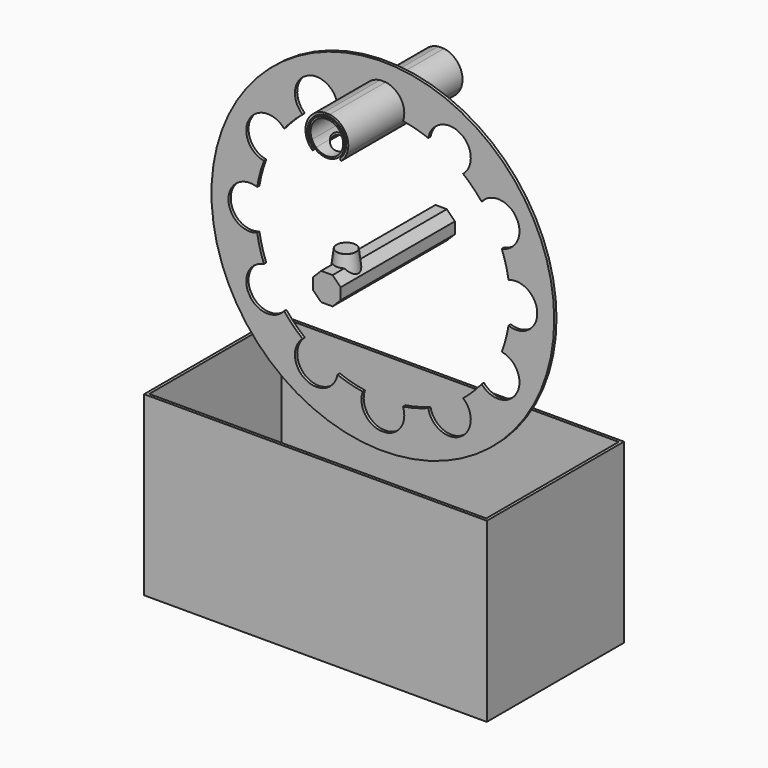
from build123d import *

# Parameters (mm, degrees)
F1_W          = 600
F1_H          = 310
F2_DEPTH      = 150
F3_T          = -5
F4_R          = 300
F5_DEPTH      = 2.5
F6_DEPTH      = 125
F7_DEPTH      = 107.89249
F7_DEPTH_BACK = 150.001
F8_DEPTH      = 125
F9_R          = 22.5
F10_DEPTH     = 216.3419725472
F11_DEPTH     = 125
F14_R         = 0.4


with BuildPart() as f2:
    # F1 (on Front) → F2 (new body, symmetric)
    with BuildSketch(Plane.XZ):
        with Locations((0, -405)):
            Rectangle(F1_W, F1_H)
    extrude(amount=F2_DEPTH, both=True)

    # F3
    f3_openings = [f2.faces().sort_by_distance(p)[0] for p in [
        (0, 0, -250),
    ]]
    offset(amount=F3_T, openings=f3_openings)


with BuildPart() as f5:
    # F4 (on Front) → F5 (new body, symmetric)
    with BuildSketch(Plane.XZ):
        Circle(F4_R)
        with BuildLine():
            ThreePointArc((-79.490946204, 208.174326227), (-57.6738974326, 215.2419154891), (-35.24598433, 220.0297280303))
            ThreePointArc((-35.24598433, 220.0297280303), (-32.0810198381, 252.2528137673), (-5, 270))
            Line((-5, 270), (5, 270))
            ThreePointArc((5, 270), (32.0810198381, 252.2528137673), (35.24598433, 220.0297280303))
            ThreePointArc((35.24598433, 220.0297280303), (57.6738974326, 215.2419154891), (79.490946204, 208.174326227))
            ThreePointArc((79.490946204, 208.174326227), (98.3434287245, 234.4978548177), (130.6698729811, 236.3268590218))
            Line((130.6698729811, 236.3268590218), (139.3301270189, 231.3268590218))
            ThreePointArc((139.3301270189, 231.3268590218), (153.9093850428, 202.4168349795), (140.5387818264, 172.928341897))
            ThreePointArc((140.5387818264, 172.928341897), (157.5680180565, 157.5680180565), (172.928341897, 140.5387818264))
            ThreePointArc((172.928341897, 140.5387818264), (202.4168349795, 153.9093850428), (231.3268590218, 139.3301270189))
            Line((231.3268590218, 139.3301270189), (236.3268590218, 130.6698729811))
            ThreePointArc((236.3268590218, 130.6698729811), (234.4978548177, 98.3434287245), (208.174326227, 79.490946204))
            ThreePointArc((208.174326227, 79.490946204), (215.2419154891, 57.6738974326), (220.0297280303, 35.24598433))
            ThreePointArc((220.0297280303, 35.24598433), (252.2528137673, 32.0810198381), (270, 5))
            Line((270, 5), (270, -5))
            ThreePointArc((270, -5), (252.2528137673, -32.0810198381), (220.0297280303, -35.24598433))
            ThreePointArc((220.0297280303, -35.24598433), (215.2419154891, -57.6738974326), (208.174326227, -79.490946204))
            ThreePointArc((208.174326227, -79.490946204), (234.4978548177, -98.3434287245), (236.3268590218, -130.6698729811))
            Line((236.3268590218, -130.6698729811), (231.3268590218, -139.3301270189))
            ThreePointArc((231.3268590218, -139.3301270189), (202.4168349795, -153.9093850428), (172.928341897, -140.5387818264))
            ThreePointArc((172.928341897, -140.5387818264), (157.5680180565, -157.5680180565), (140.5387818264, -172.928341897))
            ThreePointArc((140.5387818264, -172.928341897), (153.9093850428, -202.4168349795), (139.3301270189, -231.3268590218))
            Line((139.3301270189, -231.3268590218), (130.6698729811, -236.3268590218))
            ThreePointArc((130.6698729811, -236.3268590218), (98.3434287245, -234.4978548177), (79.490946204, -208.174326227))
            ThreePointArc((79.490946204, -208.174326227), (57.6738974326, -215.2419154891), (35.24598433, -220.0297280303))
            ThreePointArc((35.24598433, -220.0297280303), (32.0810198381, -252.2528137673), (5, -270))
            Line((5, -270), (-5, -270))
            ThreePointArc((-5, -270), (-32.0810198381, -252.2528137673), (-35.24598433, -220.0297280303))
            ThreePointArc((-35.24598433, -220.0297280303), (-57.6738974326, -215.2419154891), (-79.490946204, -208.174326227))
            ThreePointArc((-79.490946204, -208.174326227), (-98.3434287245, -234.4978548177), (-130.6698729811, -236.3268590218))
            Line((-130.6698729811, -236.3268590218), (-139.3301270189, -231.3268590218))
            ThreePointArc((-139.3301270189, -231.3268590218), (-153.9093850428, -202.4168349795), (-140.5387818264, -172.928341897))
            ThreePointArc((-140.5387818264, -172.928341897), (-157.5680180565, -157.5680180565), (-172.928341897, -140.5387818264))
            ThreePointArc((-172.928341897, -140.5387818264), (-202.4168349795, -153.9093850428), (-231.3268590218, -139.3301270189))
            Line((-231.3268590218, -139.3301270189), (-236.3268590218, -130.6698729811))
            ThreePointArc((-236.3268590218, -130.6698729811), (-234.4978548177, -98.3434287245), (-208.174326227, -79.490946204))
            ThreePointArc((-208.174326227, -79.490946204), (-215.2419154891, -57.6738974326), (-220.0297280303, -35.24598433))
            ThreePointArc((-220.0297280303, -35.24598433), (-252.2528137673, -32.0810198381), (-270, -5))
            Line((-270, -5), (-270, 5))
            ThreePointArc((-270, 5), (-252.2528137673, 32.0810198381), (-220.0297280303, 35.24598433))
            ThreePointArc((-220.0297280303, 35.24598433), (-215.2419154891, 57.6738974326), (-208.174326227, 79.490946204))
            ThreePointArc((-208.174326227, 79.490946204), (-234.4978548177, 98.3434287245), (-236.3268590218, 130.6698729811))
            Line((-236.3268590218, 130.6698729811), (-231.3268590218, 139.3301270189))
            ThreePointArc((-231.3268590218, 139.3301270189), (-202.4168349795, 153.9093850428), (-172.928341897, 140.5387818264))
            ThreePointArc((-172.928341897, 140.5387818264), (-157.5680180565, 157.5680180565), (-140.5387818264, 172.928341897))
            ThreePointArc((-140.5387818264, 172.928341897), (-153.9093850428, 202.4168349795), (-139.3301270189, 231.3268590218))
            Line((-139.3301270189, 231.3268590218), (-130.6698729811, 236.3268590218))
            ThreePointArc((-130.6698729811, 236.3268590218), (-98.3434287245, 234.4978548177), (-79.490946204, 208.174326227))
        make_face(mode=Mode.SUBTRACT)
    extrude(amount=F5_DEPTH, both=True)


with BuildPart() as f6:
    # F4 (on Front) → F6 (new body, symmetric)
    with BuildSketch(Plane.XZ):
        with BuildLine():
            ThreePointArc((-35.24598433, 220.0297280303), (-31.0603137435, 211.8227623085), (-25, 204.883978413))
            Line((-25, 204.883978413), (-22.6, 207.567259986))
            ThreePointArc((-22.6, 207.567259986), (-27.8742367873, 213.541385631), (-31.6080848843, 220.5817073069))
            ThreePointArc((-31.6080848843, 220.5817073069), (-33.4281739392, 220.3132266015), (-35.24598433, 220.0297280303))
        make_face()
        with BuildLine():
            ThreePointArc((-5, 270), (-32.0810198381, 252.2528137673), (-35.24598433, 220.0297280303))
            ThreePointArc((-35.24598433, 220.0297280303), (-33.4281739392, 220.3132266015), (-31.6080848843, 220.5817073069))
            ThreePointArc((-31.6080848843, 220.5817073069), (-6.2328132662, 266.1569234858), (33.9, 232.8348281317))
            ThreePointArc((33.9, 232.8348281317), (33.3220953541, 226.6020148655), (31.6080848843, 220.5817073069))
            ThreePointArc((31.6080848843, 220.5817073069), (33.4281739392, 220.3132266015), (35.24598433, 220.0297280303))
            ThreePointArc((35.24598433, 220.0297280303), (32.0810198381, 252.2528137673), (5, 270))
            Line((5, 270), (-5, 270))
        make_face()
        with BuildLine():
            Line((22.6, 207.567259986), (25, 204.883978413))
            ThreePointArc((25, 204.883978413), (31.0603137435, 211.8227623085), (35.24598433, 220.0297280303))
            ThreePointArc((35.24598433, 220.0297280303), (33.4281739392, 220.3132266015), (31.6080848843, 220.5817073069))
            ThreePointArc((31.6080848843, 220.5817073069), (27.8742367873, 213.541385631), (22.6, 207.567259986))
        make_face()
        with BuildLine():
            Line((-22.6, 207.567259986), (-25, 204.883978413))
            ThreePointArc((-25, 204.883978413), (0, 195.3348281317), (25, 204.883978413))
            Line((25, 204.883978413), (22.6, 207.567259986))
            ThreePointArc((22.6, 207.567259986), (0, 198.9348281317), (-22.6, 207.567259986))
        make_face()
    extrude(amount=F6_DEPTH, both=True)

    # F4 (on Front) → F7 (cut, two sides)
    with BuildSketch(Plane.XZ) as f7_sk:
        with BuildLine():
            Line((-22.6, 207.567259986), (-25, 204.883978413))
            ThreePointArc((-25, 204.883978413), (0, 195.3348281317), (25, 204.883978413))
            Line((25, 204.883978413), (22.6, 207.567259986))
            ThreePointArc((22.6, 207.567259986), (0, 198.9348281317), (-22.6, 207.567259986))
        make_face()
    extrude(amount=-F7_DEPTH, mode=Mode.SUBTRACT)
    extrude(f7_sk.sketch, amount=F7_DEPTH_BACK, mode=Mode.SUBTRACT)


with BuildPart() as f8:
    # F4 (on Front) → F8 (new body, symmetric)
    with BuildSketch(Plane.XZ):
        with BuildLine():
            ThreePointArc((-29.1591763487, 220.9187702825), (-25.7373171862, 214.6733165191), (-21, 209.356114368))
            Line((-21, 209.356114368), (-19, 211.5921823455))
            ThreePointArc((-19, 211.5921823455), (-23.0493406647, 216.0724328696), (-26.0637721885, 221.3053103922))
            ThreePointArc((-26.0637721885, 221.3053103922), (-27.6121506696, 221.1174569406), (-29.1591763487, 220.9187702825))
        make_face()
        with BuildLine():
            ThreePointArc((31.5, 232.8348281317), (-6.0719002386, 263.7440828541), (-29.1591763487, 220.9187702825))
            ThreePointArc((-29.1591763487, 220.9187702825), (-27.6121506696, 221.1174569406), (-26.0637721885, 221.3053103922))
            ThreePointArc((-26.0637721885, 221.3053103922), (-5.8920494154, 260.719120371), (28.5, 232.8348281317))
            ThreePointArc((28.5, 232.8348281317), (27.8842922393, 226.9427787163), (26.0637721885, 221.3053103922))
            ThreePointArc((26.0637721885, 221.3053103922), (27.6121506696, 221.1174569406), (29.1591763487, 220.9187702825))
            ThreePointArc((29.1591763487, 220.9187702825), (30.9092547224, 226.7629278931), (31.5, 232.8348281317))
        make_face()
        with BuildLine():
            Line((19, 211.5921823455), (21, 209.356114368))
            ThreePointArc((21, 209.356114368), (25.7373171862, 214.6733165191), (29.1591763487, 220.9187702825))
            ThreePointArc((29.1591763487, 220.9187702825), (27.6121506696, 221.1174569406), (26.0637721885, 221.3053103922))
            ThreePointArc((26.0637721885, 221.3053103922), (23.0493406647, 216.0724328696), (19, 211.5921823455))
        make_face()
        with BuildLine():
            Line((-19, 211.5921823455), (-21, 209.356114368))
            ThreePointArc((-21, 209.356114368), (0, 201.3348281317), (21, 209.356114368))
            Line((21, 209.356114368), (19, 211.5921823455))
            ThreePointArc((19, 211.5921823455), (0, 204.3348281317), (-19, 211.5921823455))
        make_face()
    extrude(amount=F8_DEPTH, both=True)

    # F9 (on Top) → F10 (cut, up to face)
    with BuildSketch(Plane.XY):
        with Locations((0, -82.5)):
            Circle(F9_R)
        with Locations((0, 82.5)):
            Circle(F9_R)
        with Locations((0, 27.5)):
            Circle(F9_R)
        with Locations((0, -27.5)):
            Circle(F9_R)
    extrude(amount=F10_DEPTH, mode=Mode.SUBTRACT)


with BuildPart() as f11:
    # F4 (on Front) → F11 (new body, symmetric)
    with BuildSketch(Plane.XZ):
        Polygon((24.1421356237, -10), (24.1421356237, 10), (10, 24.1421356237), (-10, 24.1421356237), (-24.1421356237, 10), (-24.1421356237, -10), (-10, -24.1421356237), (10, -24.1421356237), align=None)
    extrude(amount=F11_DEPTH, both=True)


with BuildPart() as f13:
    # F12 (on Right) → F13 (revolve)
    with BuildSketch(Plane.YZ):
        Polygon((-98.1523153172, 43), (-82.5, 43), (-82.5, 45), (-99.7202638812, 45), (-105, 2), (-106.432051436, 2), (-106.432051436, 0), (-105, 0), (-103.432051436, 0), align=None)
    revolve(axis=Axis((0, -82.5, 44), (0, 0, 1)))

    # F14
    f14_edges = [f13.edges().sort_by_distance(p)[0] for p in [
        (0, -58.567949, 2),
        (0, -61.567949, 0),
        (0, -58.567949, 0),
        (0, -60, 2),
        (0, -65.279736, 45),
    ]]
    fillet(f14_edges, radius=F14_R)


solid = Compound([f2.part, f5.part, f6.part, f8.part, f11.part, f13.part])
